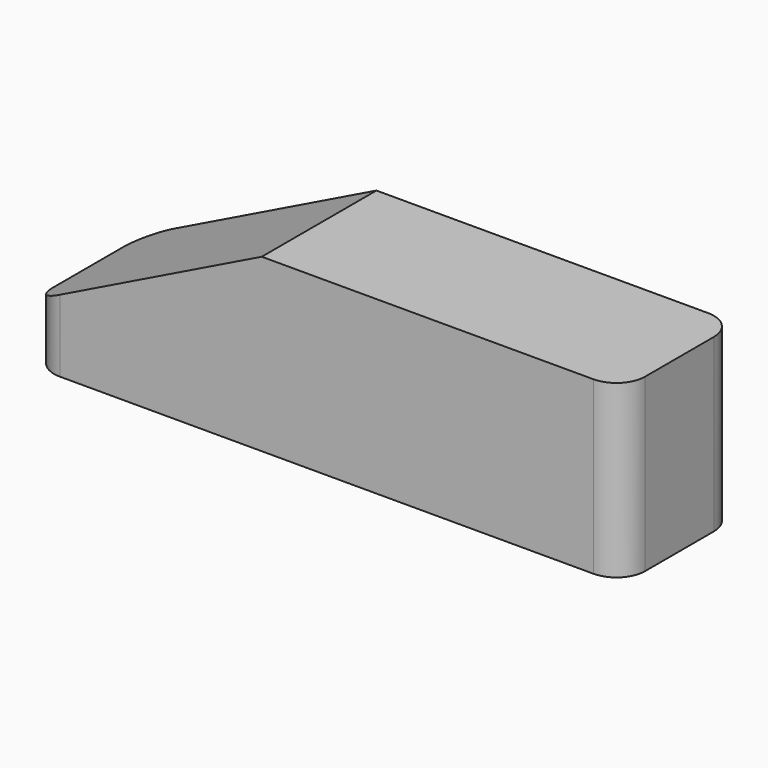
from build123d import *

# Parameters (mm, degrees)
F1_DEPTH = 25.4
F2_R     = 5.08


with BuildPart() as f1:
    # F0 (on Front) → F1 (new body)
    with BuildSketch(Plane.XZ):
        Polygon((-17.005183, 34.866743), (-57.866562, 14.803073), (-57.866562, 9.664817), (-57.866562, 4.52656), (46.856008, 4.52656), (46.856008, 34.866743), align=None)
    extrude(amount=F1_DEPTH)

    # F2
    f2_edges = [f1.edges().sort_by_distance(p)[0] for p in [
        (-57.866562, -25.4, 9.664817),
        (-57.866562, 0, 9.664817),
        (46.856008, -25.4, 19.696651),
        (46.856008, 0, 19.696651),
    ]]
    fillet(f2_edges, radius=F2_R)


solid = f1.part
